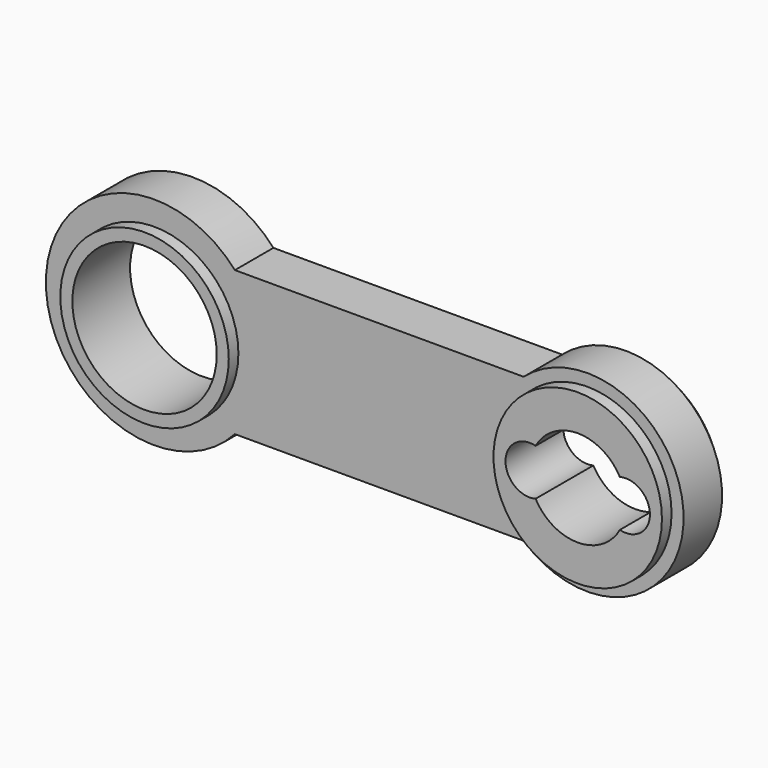
from build123d import *

# Parameters (mm, degrees)
F1_DEPTH = 1
F2_R     = 3.5
F3_DEPTH = 1.5
F4_R     = 3
F5_DEPTH = 3.001


with BuildPart() as f1:
    # F0 (on Front) → F1 (new body, symmetric)
    with BuildSketch(Plane.XZ):
        with BuildLine():
            Line((15.3542486889, 3), (3.3541019662, 3))
            ThreePointArc((3.3541019662, 3), (-4.5, 0), (3.3541019662, -3))
            Line((3.3541019662, -3), (15.3542486889, -3))
            ThreePointArc((15.3542486889, -3), (22, 0), (15.3542486889, 3))
        make_face()
    extrude(amount=F1_DEPTH, both=True)

    # F2 (on Front) → F3 (join, symmetric)
    with BuildSketch(Plane.XZ):
        Circle(F2_R)
        with Locations((18, 0)):
            Circle(F2_R)
    extrude(amount=F3_DEPTH, both=True)

    # F4 (on face) → F5 (cut, through all)
    with BuildSketch(Plane.XZ.offset(1.5)):
        Circle(F4_R)
        with BuildLine():
            ThreePointArc((19.75, -0.9682458366), (21, 0), (19.75, 0.9682458366))
            ThreePointArc((19.75, 0.9682458366), (18, 2), (16.25, 0.9682458366))
            ThreePointArc((16.25, 0.9682458366), (15, 0), (16.25, -0.9682458366))
            ThreePointArc((16.25, -0.9682458366), (18, -2), (19.75, -0.9682458366))
        make_face()
    extrude(amount=-F5_DEPTH, mode=Mode.SUBTRACT)


solid = f1.part
